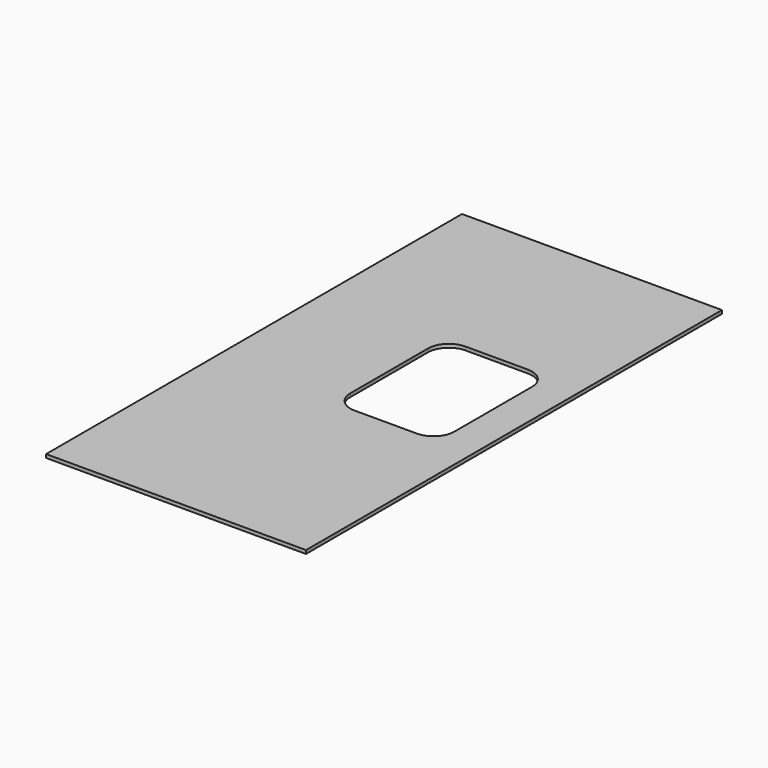
from build123d import *

# Parameters (mm, degrees)
F0_W     = 750
F0_H     = 1100
F1_DEPTH = 10
F2_W     = 750
F2_H     = 400
F3_DEPTH = 10
F4_W     = 300
F4_H     = 400
F5_DEPTH = 25
F6_R     = 60


with BuildPart() as f1:
    # F0 (on Top) → F1 (new body)
    with BuildSketch(Plane.XY):
        with Locations((-375, 550)):
            Rectangle(F0_W, F0_H)
    extrude(amount=F1_DEPTH)

    # F2 (on face) → F3 (join)
    with BuildSketch(Plane.XY.offset(10)):
        with Locations((-375, 1300)):
            Rectangle(F2_W, F2_H)
    extrude(amount=-F3_DEPTH)

    # F4 (on face) → F5 (cut)
    with BuildSketch(Plane.XY.offset(10)):
        with Locations((-250, 800)):
            Rectangle(F4_W, F4_H)
    extrude(amount=-F5_DEPTH, mode=Mode.SUBTRACT)

    # F6
    f6_edges = [f1.edges().sort_by_distance(p)[0] for p in [
        (-400, 1000, 5),
        (-400, 600, 5),
        (-100, 1000, 5),
        (-100, 600, 5),
    ]]
    fillet(f6_edges, radius=F6_R)


solid = f1.part
